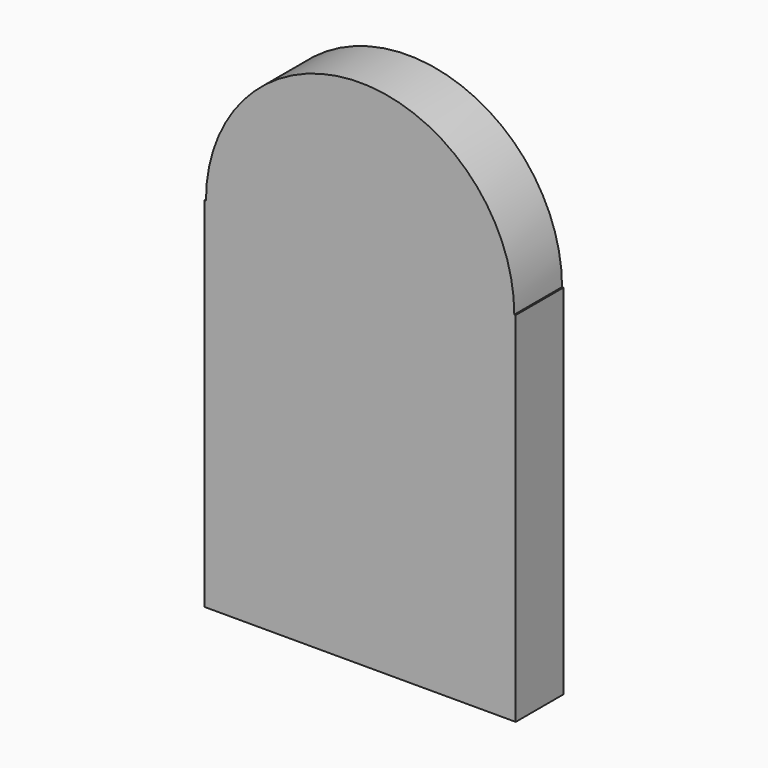
from build123d import *

# Parameters (mm, degrees)
F1_DEPTH = 25


with BuildPart() as f1:
    # F0 (on Front) → F1 (new body)
    with BuildSketch(Plane.XZ):
        with BuildLine():
            Line((0, 150), (0, 0))
            Line((0, 0), (33.5, 0))
            Line((33.5, 0), (33.5, 10))
            Line((33.5, 10), (36.5, 10))
            Line((36.5, 10), (36.5, 0))
            Line((36.5, 0), (93.847679, 0))
            Line((93.847679, 0), (93.847679, 10))
            Line((93.847679, 10), (96.847679, 10))
            Line((96.847679, 10), (96.847679, 0))
            Line((96.847679, 0), (130.347679, 0))
            Line((130.347679, 0), (130.347679, 150))
            Line((130.347679, 150), (129.752727, 150))
            ThreePointArc((129.752727, 150), (65.173839, 214.578888), (0.594952, 150))
            Line((0.594952, 150), (0, 150))
        make_face()
        Polygon((33.5, 10), (33.5, 0), (35, 0), (36.5, 0), (36.5, 10), align=None)
        Polygon((93.847679, 10), (93.847679, 0), (95.347679, 0), (96.847679, 0), (96.847679, 10), align=None)
    extrude(amount=F1_DEPTH)


solid = f1.part
